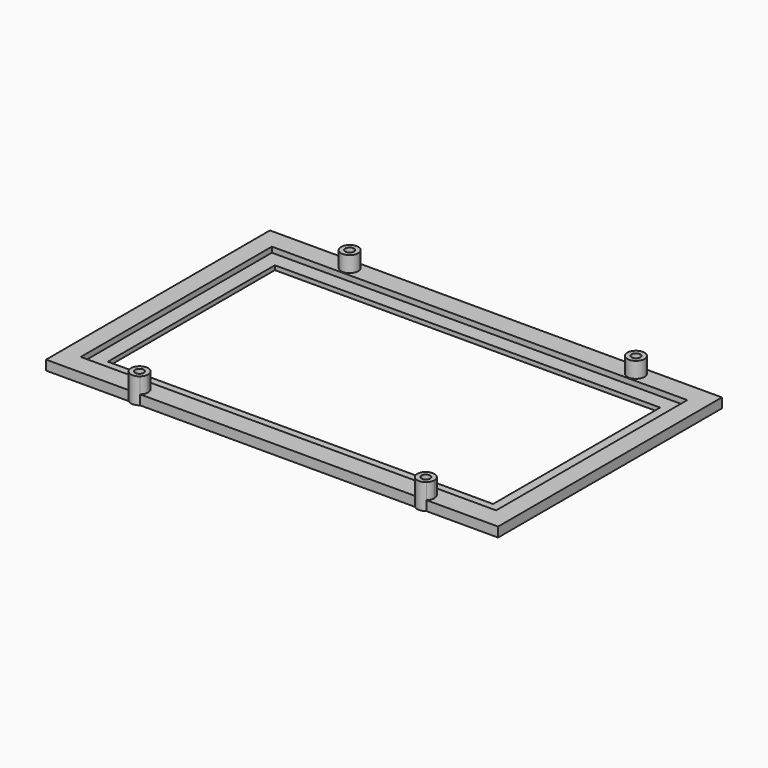
from build123d import *

# Parameters (mm, degrees)
F0_W     = 193
F0_H     = 111
F0_W_2   = 179
F0_H_2   = 97
F1_DEPTH = 2
F0_R     = 4
F0_R_2   = 2
F2_DEPTH = 4.5
F3_DEPTH = 5
F4_DEPTH = 11.85


with BuildPart() as f1:
    # F0 (on Top) → F1 (new body)
    with BuildSketch(Plane.XY):
        with Locations((38.2122632861, 15.2387920618)):
            Rectangle(F0_W, F0_H)
        with Locations((38.2122632861, 15.2387920618)):
            Rectangle(F0_W_2, F0_H_2, mode=Mode.SUBTRACT)
    extrude(amount=F1_DEPTH)

    # F0 (on Top) → F2 (join)
    with BuildSketch(Plane.XY):
        with BuildLine():
            Line((143.2122632861, 80.2387920618), (-66.7877367139, 80.2387920618))
            Line((-66.7877367139, 80.2387920618), (-66.7877367139, -49.7612079382))
            Line((-66.7877367139, -49.7612079382), (-28.393488025, -49.7612079382))
            ThreePointArc((-28.393488025, -49.7612079382), (-27.393488025, -43.1154566271), (-21.7477367139, -46.7612079382))
            ThreePointArc((-21.7477367139, -46.7612079382), (-22.1019854028, -48.4069592493), (-23.1019854028, -49.7612079382))
            Line((-23.1019854028, -49.7612079382), (104.606511975, -49.7612079382))
            ThreePointArc((104.606511975, -49.7612079382), (105.606511975, -43.1154566271), (111.2522632861, -46.7612079382))
            ThreePointArc((111.2522632861, -46.7612079382), (110.8980145972, -48.4069592493), (109.8980145972, -49.7612079382))
            Line((109.8980145972, -49.7612079382), (143.2122632861, -49.7612079382))
            Line((143.2122632861, -49.7612079382), (143.2122632861, 80.2387920618))
        make_face()
        with Locations((38.2122632861, 15.2387920618)):
            Rectangle(F0_W, F0_H, mode=Mode.SUBTRACT)
        with Locations((-25.7477367139, 75.2387920618)):
            Circle(F0_R, mode=Mode.SUBTRACT)
        with Locations((107.2522632861, 75.2387920618)):
            Circle(F0_R, mode=Mode.SUBTRACT)
        with Locations((-25.7477367139, 75.2387920618)):
            Circle(F0_R)
        with Locations((-25.7477367139, 75.2387920618)):
            Circle(F0_R_2, mode=Mode.SUBTRACT)
        with Locations((107.2522632861, 75.2387920618)):
            Circle(F0_R)
        with Locations((107.2522632861, 75.2387920618)):
            Circle(F0_R_2, mode=Mode.SUBTRACT)
        with BuildLine():
            ThreePointArc((-21.7477367139, -46.7612079382), (-27.393488025, -43.1154566271), (-28.393488025, -49.7612079382))
            Line((-28.393488025, -49.7612079382), (-23.1019854028, -49.7612079382))
            ThreePointArc((-23.1019854028, -49.7612079382), (-22.1019854028, -48.4069592493), (-21.7477367139, -46.7612079382))
        make_face()
        with Locations((-25.7477367139, -46.7612079382)):
            Circle(F0_R_2, mode=Mode.SUBTRACT)
        with BuildLine():
            Line((104.606511975, -49.7612079382), (109.8980145972, -49.7612079382))
            ThreePointArc((109.8980145972, -49.7612079382), (110.8980145972, -48.4069592493), (111.2522632861, -46.7612079382))
            ThreePointArc((111.2522632861, -46.7612079382), (105.606511975, -43.1154566271), (104.606511975, -49.7612079382))
        make_face()
        with Locations((107.2522632861, -46.7612079382)):
            Circle(F0_R_2, mode=Mode.SUBTRACT)
    extrude(amount=F2_DEPTH)

    # F0 (on Top) → F3 (cut)
    with BuildSketch(Plane.XY):
        with Locations((-25.7477367139, 75.2387920618)):
            Circle(F0_R_2)
        with Locations((107.2522632861, 75.2387920618)):
            Circle(F0_R_2)
        with Locations((107.2522632861, -46.7612079382)):
            Circle(F0_R_2)
        with Locations((-25.7477367139, -46.7612079382)):
            Circle(F0_R_2)
    extrude(amount=-F3_DEPTH, mode=Mode.SUBTRACT)

    # F0 (on Top) → F4 (join)
    with BuildSketch(Plane.XY):
        with Locations((-25.7477367139, 75.2387920618)):
            Circle(F0_R)
        with Locations((-25.7477367139, 75.2387920618)):
            Circle(F0_R_2, mode=Mode.SUBTRACT)
        with BuildLine():
            Line((104.606511975, -49.7612079382), (109.8980145972, -49.7612079382))
            ThreePointArc((109.8980145972, -49.7612079382), (110.8980145972, -48.4069592493), (111.2522632861, -46.7612079382))
            ThreePointArc((111.2522632861, -46.7612079382), (105.606511975, -43.1154566271), (104.606511975, -49.7612079382))
        make_face()
        with Locations((107.2522632861, -46.7612079382)):
            Circle(F0_R_2, mode=Mode.SUBTRACT)
        with BuildLine():
            ThreePointArc((104.606511975, -49.7612079382), (107.2522632861, -50.7612079382), (109.8980145972, -49.7612079382))
            Line((109.8980145972, -49.7612079382), (104.606511975, -49.7612079382))
        make_face()
        with BuildLine():
            ThreePointArc((-21.7477367139, -46.7612079382), (-27.393488025, -43.1154566271), (-28.393488025, -49.7612079382))
            Line((-28.393488025, -49.7612079382), (-23.1019854028, -49.7612079382))
            ThreePointArc((-23.1019854028, -49.7612079382), (-22.1019854028, -48.4069592493), (-21.7477367139, -46.7612079382))
        make_face()
        with Locations((-25.7477367139, -46.7612079382)):
            Circle(F0_R_2, mode=Mode.SUBTRACT)
        with BuildLine():
            Line((-23.1019854028, -49.7612079382), (-28.393488025, -49.7612079382))
            ThreePointArc((-28.393488025, -49.7612079382), (-25.7477367139, -50.7612079382), (-23.1019854028, -49.7612079382))
        make_face()
        with Locations((107.2522632861, 75.2387920618)):
            Circle(F0_R)
        with Locations((107.2522632861, 75.2387920618)):
            Circle(F0_R_2, mode=Mode.SUBTRACT)
    extrude(amount=F4_DEPTH)


solid = f1.part
